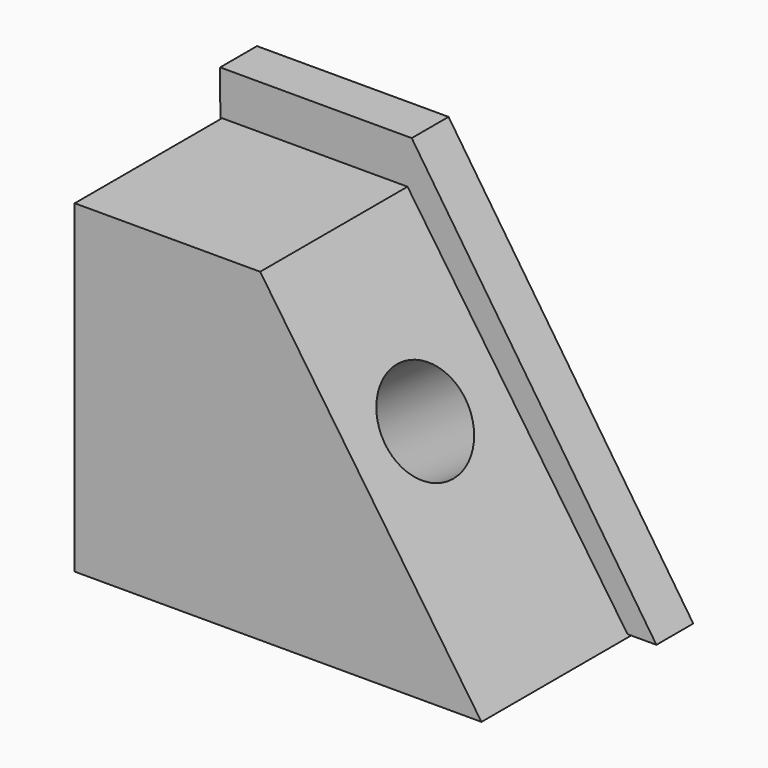
from build123d import *

# Parameters (mm, degrees)
F1_DEPTH = 63.5
F3_DEPTH = 12.7
F4_R     = 13.783104
F5_DEPTH = 50.8


with BuildPart() as f1:
    # F0 (on Front) → F1 (new body)
    with BuildSketch(Plane.XZ):
        Polygon((6.323813, 37.759591), (-44.816598, 37.759591), (-44.816598, -51.69031), (67.362368, -51.69031), align=None)
    extrude(amount=F1_DEPTH)

    # F2 (on Front) → F3 (join)
    with BuildSketch(Plane.XZ):
        Polygon((-45.349181, 49.929906), (-45.0438, -51.151432), (74.971199, -51.151432), (7.481851, 49.929906), align=None)
    extrude(amount=F3_DEPTH)

    # F4 (on face) → F5 (cut)
    with BuildSketch(Plane(origin=(21.894957, 0, 14.940615), x_dir=(0, 1, 0), z_dir=(0.826012, 0, 0.563652))):
        with Locations((-38.936164, -18.272493)):
            Circle(F4_R)
    extrude(amount=-F5_DEPTH, mode=Mode.SUBTRACT)


solid = f1.part
